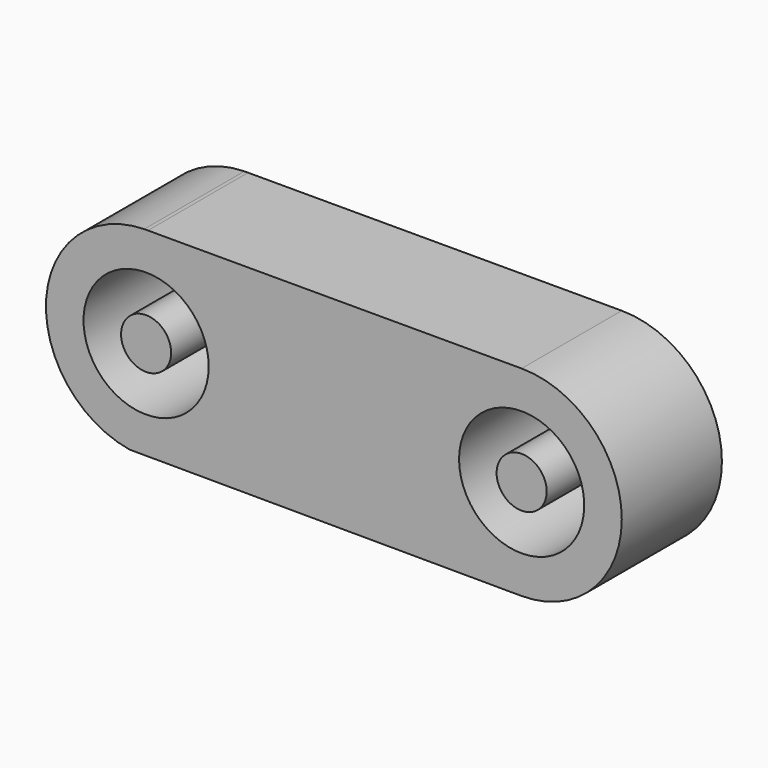
from build123d import *

# Parameters (mm, degrees)
F0_R     = 2.5
F1_DEPTH = 5
F0_R_2   = 1
F2_DEPTH = 5


with BuildPart() as f1:
    # F0 (on Front) → F1 (new body)
    with BuildSketch(Plane.XZ):
        with BuildLine():
            Line((3.613079, 20.400155), (-11.313741, 20.399488))
            Line((-11.313741, 20.399488), (-11.460101, 20.399482))
            ThreePointArc((-11.460101, 20.399482), (-15.375774, 16.696181), (-12.049627, 12.455464))
            Line((-12.049627, 12.455464), (-10.751746, 12.450879))
            Line((-10.751746, 12.450879), (3.599126, 12.40018))
            ThreePointArc((3.599126, 12.40018), (7.613251, 16.393178), (3.613079, 20.400155))
        make_face()
        with Locations((-11.386743, 16.400155)):
            Circle(F0_R, mode=Mode.SUBTRACT)
        with BuildLine():
            ThreePointArc((6.113257, 16.400155), (3.613257, 13.900155), (1.113257, 16.400155))
            ThreePointArc((1.113257, 16.400155), (3.613257, 18.900155), (6.113257, 16.400155))
        make_face(mode=Mode.SUBTRACT)
    extrude(amount=F1_DEPTH)


with BuildPart() as f2:
    # F0 (on Front) → F2 (new body)
    with BuildSketch(Plane.XZ):
        with Locations((-11.386743, 16.400155)):
            Circle(F0_R_2)
        with BuildLine():
            ThreePointArc((4.613257, 16.400155), (3.613257, 17.400155), (2.613257, 16.400155))
            ThreePointArc((2.613257, 16.400155), (3.613257, 15.400155), (4.613257, 16.400155))
        make_face()
    extrude(amount=F2_DEPTH)


solid = Compound([f1.part, f2.part])
